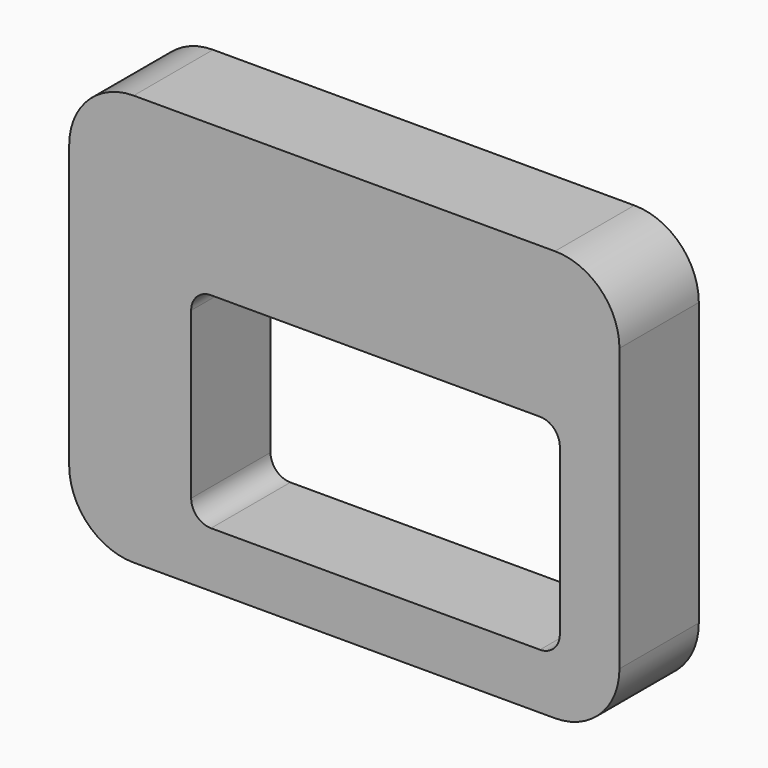
from build123d import *

# Parameters (mm, degrees)
F0_W     = 94.379153
F0_H     = 52.511706
F1_DEPTH = 25.4
F2_R     = 5.08


with BuildPart() as f1:
    # F0 (on Front) → F1 (new body)
    with BuildSketch(Plane.XZ):
        with BuildLine():
            Line((57.491111, 56.582184), (-50.347994, 56.582184))
            ThreePointArc((-50.347994, 56.582184), (-62.022327, 51.746516), (-66.857994, 40.072184))
            Line((-66.857994, 40.072184), (-66.857994, -32.156582))
            ThreePointArc((-66.857994, -32.156582), (-62.022327, -43.830914), (-50.347994, -48.666582))
            Line((-50.347994, -48.666582), (57.491111, -48.666582))
            ThreePointArc((57.491111, -48.666582), (69.165444, -43.830914), (74.001111, -32.156582))
            Line((74.001111, -32.156582), (74.001111, 40.072184))
            ThreePointArc((74.001111, 40.072184), (69.165444, 51.746516), (57.491111, 56.582184))
        make_face()
        with Locations((11.554757, -8.218375)):
            Rectangle(F0_W, F0_H, mode=Mode.SUBTRACT)
    extrude(amount=F1_DEPTH)

    # F2
    f2_edges = [f1.edges().sort_by_distance(p)[0] for p in [
        (-35.634819, -12.7, 18.037478),
        (58.744334, -12.7, 18.037478),
        (58.744334, -12.7, -34.474228),
        (-35.634819, -12.7, -34.474228),
    ]]
    fillet(f2_edges, radius=F2_R)


solid = f1.part
